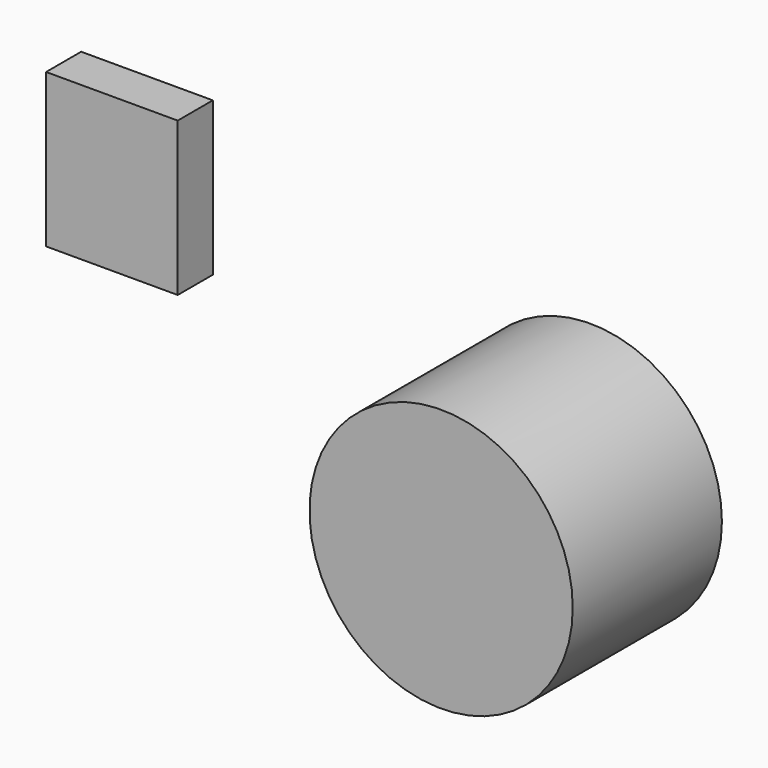
from build123d import *

# Parameters (mm, degrees)
F0_R     = 76.2
F1_DEPTH = 107.95
F2_W     = 76.2
F2_H     = 88.9
F3_DEPTH = 25.4


with BuildPart() as f1:
    # F0 (on Front) → F1 (new body)
    with BuildSketch(Plane.XZ):
        with Locations((49.553469, -50.89929)):
            Circle(F0_R)
    extrude(amount=F1_DEPTH)


with BuildPart() as f3:
    # F2 (on Front) → F3 (new body)
    with BuildSketch(Plane.XZ):
        with Locations((-207.093079, 23.521878)):
            Rectangle(F2_W, F2_H)
    extrude(amount=F3_DEPTH)


solid = Compound([f1.part, f3.part])
